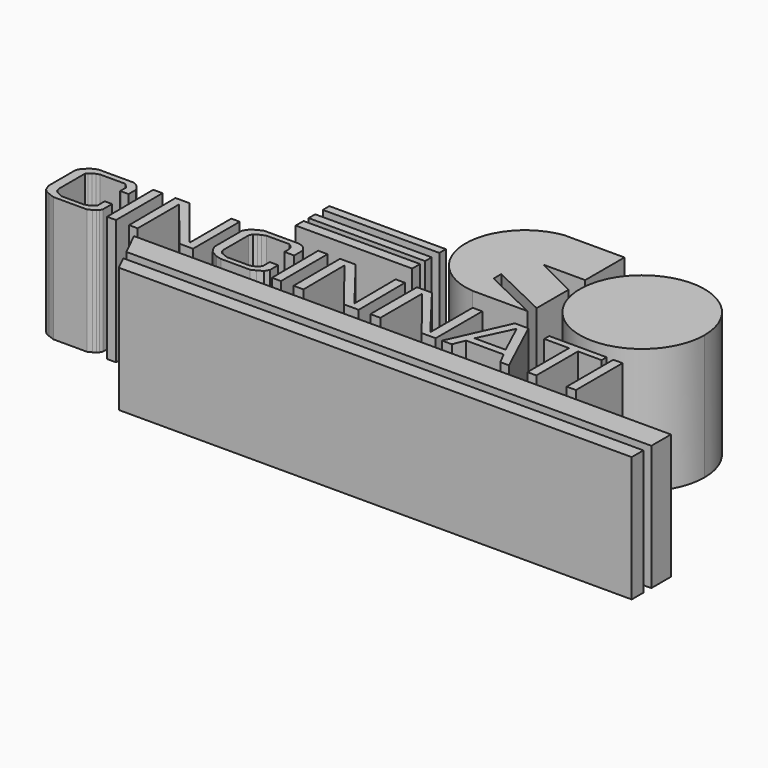
from build123d import *

# Parameters (mm, degrees)
F0_W     = 23.240135
F0_H     = 1.623482
F0_H_2   = 1.644677
F0_H_3   = 1.963657
F0_W_2   = 1.841724
F0_H_4   = 11.63069
F1_DEPTH = 25


with BuildPart() as f1:
    # F0 (on Top) → F1 (new body)
    with BuildSketch(Plane.XY):
        with Locations((50.901432, 35.89902)):
            Rectangle(F0_W, F0_H)
        with Locations((50.901432, 32.362796)):
            Rectangle(F0_W, F0_H_2)
        with Locations((50.901432, 29.298658)):
            Rectangle(F0_W, F0_H_3)
        with BuildLine():
            Line((77.676195, 42.112927), (86.005546, 42.112927))
            Line((86.005546, 42.112927), (86.005546, 51.912002))
            Line((86.005546, 51.912002), (73.999673, 51.912002))
            ThreePointArc((73.999673, 51.912002), (63.708863, 39.869009), (74.559599, 28.327953))
            Line((74.559599, 28.327953), (85.523163, 28.327953))
            Line((85.523163, 28.327953), (74.522875, 33.616588))
            Line((74.522875, 33.616588), (74.522875, 35.533355))
            Line((74.522875, 35.533355), (86.005546, 30.012803))
            Line((86.005546, 30.012803), (86.005546, 30.03966))
            Line((86.005546, 30.03966), (86.005546, 32.18453))
            Line((86.005546, 32.18453), (86.005546, 33.273332))
            Line((86.005546, 33.273332), (86.005546, 34.053977))
            Line((86.005546, 34.053977), (86.005546, 35.46397))
            Line((86.005546, 35.46397), (86.005546, 36.002281))
            Line((86.005546, 36.002281), (86.005546, 37.950585))
            Line((86.005546, 37.950585), (77.676195, 42.112927))
        make_face()
        Polygon((128.973919, 9.790593), (21.830879, 9.790593), (24.234486, 4.895296), (128.973919, 4.895296), align=None)
        Polygon((128.973919, 2.913478), (25.207565, 2.913478), (26.638092, 0), (128.973919, 0), align=None)
        Polygon((10.644992, 20.337412), (10.933565, 20.338876), (12.316926, 20.338876), (12.316926, 22.16001), (12.054263, 22.685338), (11.791599, 23.000533), (11.283783, 23.490839), (10.548325, 23.876078), (3.473921, 23.876078), (2.896062, 23.665948), (2.160604, 23.245687), (1.704695, 22.773496), (1.170035, 22.219743), (0.812269, 21.494595), (0.812269, 14.742318), (1.281279, 13.561564), (1.790411, 13.069987), (2.543977, 12.706352), (3.773217, 12.245388), (10.47104, 12.245388), (11.283783, 12.636309), (11.824754, 12.969016), (12.168722, 13.325268), (12.402614, 13.809539), (12.402614, 14.183894), (12.402614, 16.120534), (10.943032, 16.120534), (10.943032, 14.329663), (10.692041, 14.069708), (10.38615, 13.752894), (10.026772, 13.517523), (9.443698, 13.350931), (9.027216, 13.24681), (4.539625, 13.24681), (3.831607, 13.611232), (3.206885, 13.986065), (2.912182, 14.270606), (2.707107, 14.902325), (2.707107, 15.776936), (2.707107, 20.83719), (2.707107, 21.494595), (3.008328, 21.806573), (3.54007, 22.232404), (4.060672, 22.503117), (4.727044, 22.732181), (9.745648, 22.732181), (10.222821, 22.271462), (10.644992, 21.863848), align=None)
        Polygon((16.261617, 23.876078), (14.405461, 23.876078), (14.475505, 12.283863), (16.261617, 12.283863), align=None)
        Polygon((18.85323, 23.876078), (18.923273, 12.21382), (20.639341, 12.21382), (20.639341, 22.510229), (29.009551, 12.21382), (31.671207, 12.21382), (31.671207, 23.876078), (29.990163, 23.876078), (29.990163, 13.509626), (21.619951, 23.876078), align=None)
        Polygon((43.468714, 21.549873), (43.468714, 20.279603), (45.408294, 20.279603), (45.408294, 22.236638), (45.210179, 22.731919), (44.863481, 23.177674), (44.219613, 23.672957), (43.37763, 23.876078), (36.517963, 23.876078), (36.022678, 23.648193), (35.354048, 23.326259), (34.611121, 22.85574), (34.165367, 22.310929), (33.843435, 21.716589), (33.843435, 14.881684), (34.190133, 14.08923), (34.734942, 13.296778), (35.552159, 12.826259), (36.171265, 12.504325), (37.211359, 12.245388), (43.030933, 12.245388), (43.971971, 12.677674), (45.012064, 13.272014), (45.507349, 14.113995), (45.507349, 16.16942), (43.823387, 16.16942), (43.823387, 14.460693), (43.550983, 14.08923), (42.903304, 13.593948), (42.907115, 13.593948), (42.11466, 13.296778), (37.582822, 13.296778), (36.763355, 13.593948), (36.138635, 13.886609), (35.805449, 14.219794), (35.61803, 14.844517), (35.61803, 21.17504), (35.951216, 21.883057), (36.492642, 22.216244), (37.096541, 22.507781), (37.887856, 22.799319), (42.427506, 22.799319), (42.907115, 22.445308), (43.302119, 22.028826), align=None)
        Polygon((49.195334, 23.876078), (47.321167, 23.876078), (47.404464, 12.245388), (49.195334, 12.245388), align=None)
        Polygon((51.681601, 23.876078), (51.709369, 12.245388), (53.688098, 12.245388), (53.614204, 22.563102), (61.76788, 12.245388), (64.709708, 12.245388), (64.626411, 23.876078), (62.783509, 23.876078), (62.857876, 13.492442), (54.79854, 23.876078), align=None)
        Polygon((70.017569, 23.876078), (67.029893, 23.876078), (67.029893, 12.245388), (69.028743, 12.245388), (69.028743, 22.627867), (77.275351, 12.245388), (80.065772, 12.245388), (80.065772, 23.876078), (78.142628, 23.876078), (78.142628, 13.315695), align=None)
        Polygon((104.871899, 23.876078), (93.415372, 23.876078), (93.415372, 22.627867), (98.368205, 22.627867), (98.368205, 12.245388), (100.151218, 12.245388), (100.151218, 22.627867), (104.871899, 22.627867), align=None)
        with Locations((107.129723, 18.060733)):
            Rectangle(F0_W_2, F0_H_4)
        with BuildLine():
            Line((98.390199, 46.567306), (98.390199, 47.691807))
            Line((98.390199, 47.691807), (93.351401, 49.935978))
            ThreePointArc((93.351401, 49.935978), (92.904579, 49.658634), (92.469878, 49.362654))
            Line((92.469878, 49.362654), (98.390199, 46.567306))
        make_face()
        with BuildLine():
            Line((98.390199, 45.266662), (91.488348, 48.586249))
            ThreePointArc((91.488348, 48.586249), (91.087072, 48.218796), (90.702248, 47.834149))
            Line((90.702248, 47.834149), (98.390199, 44.110063))
            Line((98.390199, 44.110063), (98.390199, 45.266662))
        make_face()
        with BuildLine():
            ThreePointArc((90.021739, 47.061974), (89.715611, 46.668311), (89.425506, 46.262695))
            Line((89.425506, 46.262695), (98.390199, 41.861061))
            Line((98.390199, 41.861061), (98.390199, 42.902265))
            Line((98.390199, 42.902265), (90.021739, 47.061974))
        make_face()
        with BuildLine():
            ThreePointArc((88.759542, 45.175401), (88.544855, 44.762609), (88.345754, 44.342078))
            Line((88.345754, 44.342078), (98.390199, 39.278145))
            Line((98.390199, 39.278145), (98.390199, 40.32008))
            Line((98.390199, 40.32008), (88.759542, 45.175401))
        make_face()
        Polygon((86.565368, 23.876078), (81.347123, 12.245388), (83.308347, 12.245388), (84.25393, 14.593991), (91.748595, 14.593991), (92.974357, 12.245388), (94.690427, 12.245388), (89.262046, 23.876078), align=None)
        Polygon((84.800757, 16.027085), (87.9177, 22.627867), (90.999618, 16.027085), align=None, mode=Mode.SUBTRACT)
        with BuildLine():
            Line((93.351401, 49.935978), (98.390199, 47.691807))
            Line((98.390199, 47.691807), (98.390199, 46.567306))
            Line((98.390199, 46.567306), (92.469878, 49.362654))
            ThreePointArc((92.469878, 49.362654), (91.969344, 48.986802), (91.488348, 48.586249))
            Line((91.488348, 48.586249), (98.390199, 45.266662))
            Line((98.390199, 45.266662), (98.390199, 44.110063))
            Line((98.390199, 44.110063), (90.702248, 47.834149))
            ThreePointArc((90.702248, 47.834149), (90.354005, 47.455102), (90.021739, 47.061974))
            Line((90.021739, 47.061974), (98.390199, 42.902265))
            Line((98.390199, 42.902265), (98.390199, 41.861061))
            Line((98.390199, 41.861061), (89.425506, 46.262695))
            ThreePointArc((89.425506, 46.262695), (89.078585, 45.727585), (88.759542, 45.175401))
            Line((88.759542, 45.175401), (98.390199, 40.32008))
            Line((98.390199, 40.32008), (98.390199, 39.278145))
            Line((98.390199, 39.278145), (88.345754, 44.342078))
            ThreePointArc((88.345754, 44.342078), (97.072743, 27.067182), (112.127738, 39.22981))
            ThreePointArc((112.127738, 39.22981), (105.849415, 50.036901), (93.351401, 49.935978))
        make_face()
    extrude(amount=F1_DEPTH)


solid = f1.part
